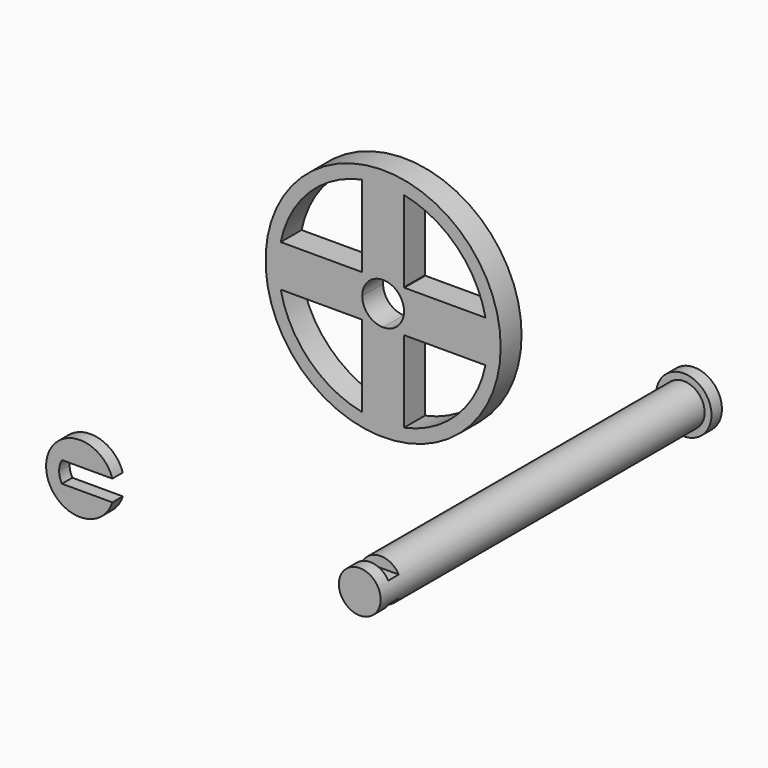
from build123d import *

# Parameters (mm, degrees)
F0_R      = 22.5
F1_DEPTH  = 5
F0_R_2    = 4
F2_DEPTH  = 80
F0_R_3    = 5.3049269063
F3_DEPTH  = 2.5
F6_W      = 4
F6_H      = 2.5
F7_DEPTH  = 2
F9_W      = 4
F9_H      = 2.5
F10_DEPTH = 2
F11_W     = 2.5
F11_H     = 2
F11_H_2   = 2.5
F14_DEPTH = 25


with BuildPart() as f1:
    # F0 (on Front) → F1 (new body)
    with BuildSketch(Plane.XZ):
        Circle(F0_R)
        with BuildLine():
            ThreePointArc((19.5959179423, 4), (19.8987230601, 2.0101792401), (20, 0))
            ThreePointArc((20, 0), (19.8987230601, -2.0101792401), (19.5959179423, -4))
            ThreePointArc((19.5959179423, -4), (14.1421356237, -14.1421356237), (4, -19.5959179423))
            ThreePointArc((4, -19.5959179423), (2.0101792401, -19.8987230601), (0, -20))
            ThreePointArc((0, -20), (-2.0101792401, -19.8987230601), (-4, -19.5959179423))
            ThreePointArc((-4, -19.5959179423), (-14.1421356237, -14.1421356237), (-19.5959179423, -4))
            ThreePointArc((-19.5959179423, -4), (-19.8987230601, -2.0101792401), (-20, 0))
            ThreePointArc((-20, 0), (-19.8987230601, 2.0101792401), (-19.5959179423, 4))
            ThreePointArc((-19.5959179423, 4), (-14.1421356237, 14.1421356237), (-4, 19.5959179423))
            ThreePointArc((-4, 19.5959179423), (-2.0101792401, 19.8987230601), (0, 20))
            ThreePointArc((0, 20), (2.0101792401, 19.8987230601), (4, 19.5959179423))
            ThreePointArc((4, 19.5959179423), (14.1421356237, 14.1421356237), (19.5959179423, 4))
        make_face(mode=Mode.SUBTRACT)
        with BuildLine():
            Line((-4.0603872565, 4), (-19.5959179423, 4))
            ThreePointArc((-19.5959179423, 4), (-19.8987230601, 2.0101792401), (-20, 0))
            Line((-20, 0), (-5.6997144378, 0))
            ThreePointArc((-5.6997144378, 0), (-5.2739829608, 2.1614459054), (-4.0603872565, 4))
        make_face()
        with BuildLine():
            Line((-4, 4), (0, 4))
            Line((0, 4), (0, 5.6997144378))
            ThreePointArc((0, 5.6997144378), (-2.1614459054, 5.2739829608), (-4, 4.0603872565))
            Line((-4, 4.0603872565), (-4, 4))
        make_face()
        with BuildLine():
            Line((0, 5.6997144378), (0, 20))
            ThreePointArc((0, 20), (-2.0101792401, 19.8987230601), (-4, 19.5959179423))
            Line((-4, 19.5959179423), (-4, 4.0603872565))
            ThreePointArc((-4, 4.0603872565), (-2.1614459054, 5.2739829608), (0, 5.6997144378))
        make_face()
        with BuildLine():
            Line((4, 4), (4, 4.0603872565))
            ThreePointArc((4, 4.0603872565), (2.1614459054, 5.2739829608), (0, 5.6997144378))
            Line((0, 5.6997144378), (0, 4))
            Line((0, 4), (4, 4))
        make_face()
        with BuildLine():
            Line((4, 4.0603872565), (4, 19.5959179423))
            ThreePointArc((4, 19.5959179423), (2.0101792401, 19.8987230601), (0, 20))
            Line((0, 20), (0, 5.6997144378))
            ThreePointArc((0, 5.6997144378), (2.1614459054, 5.2739829608), (4, 4.0603872565))
        make_face()
        with BuildLine():
            ThreePointArc((-20, 0), (-19.8987230601, -2.0101792401), (-19.5959179423, -4))
            Line((-19.5959179423, -4), (-4.0603872565, -4))
            ThreePointArc((-4.0603872565, -4), (-5.2739829608, -2.1614459054), (-5.6997144378, 0))
            Line((-5.6997144378, 0), (-20, 0))
        make_face()
        with BuildLine():
            ThreePointArc((0, 4), (2.8284271247, 2.8284271247), (4, 0))
            Line((4, 0), (4, 4))
            Line((4, 4), (0, 4))
        make_face()
        with BuildLine():
            Line((5.6997144378, 0), (20, 0))
            ThreePointArc((20, 0), (19.8987230601, 2.0101792401), (19.5959179423, 4))
            Line((19.5959179423, 4), (4.0603872565, 4))
            ThreePointArc((4.0603872565, 4), (5.2739829608, 2.1614459054), (5.6997144378, 0))
        make_face()
        with BuildLine():
            ThreePointArc((-4, 0), (-2.8284271247, 2.8284271247), (0, 4))
            Line((0, 4), (-4, 4))
            Line((-4, 4), (-4, 0))
        make_face()
        with BuildLine():
            Line((-4, -4), (0, -4))
            ThreePointArc((0, -4), (-2.8284271247, -2.8284271247), (-4, 0))
            Line((-4, 0), (-4, -4))
        make_face()
        with BuildLine():
            Line((4, -4), (4, 0))
            ThreePointArc((4, 0), (2.8284271247, -2.8284271247), (0, -4))
            Line((0, -4), (4, -4))
        make_face()
        with BuildLine():
            ThreePointArc((19.5959179423, -4), (19.8987230601, -2.0101792401), (20, 0))
            Line((20, 0), (5.6997144378, 0))
            ThreePointArc((5.6997144378, 0), (5.2739829608, -2.1614459054), (4.0603872565, -4))
            Line((4.0603872565, -4), (19.5959179423, -4))
        make_face()
        with BuildLine():
            ThreePointArc((0, -5.6997144378), (2.1614459054, -5.2739829608), (4, -4.0603872565))
            Line((4, -4.0603872565), (4, -4))
            Line((4, -4), (0, -4))
            Line((0, -4), (0, -5.6997144378))
        make_face()
        with BuildLine():
            ThreePointArc((0, -20), (2.0101792401, -19.8987230601), (4, -19.5959179423))
            Line((4, -19.5959179423), (4, -4.0603872565))
            ThreePointArc((4, -4.0603872565), (2.1614459054, -5.2739829608), (0, -5.6997144378))
            Line((0, -5.6997144378), (0, -20))
        make_face()
        with BuildLine():
            Line((0, -5.6997144378), (0, -4))
            Line((0, -4), (-4, -4))
            Line((-4, -4), (-4, -4.0603872565))
            ThreePointArc((-4, -4.0603872565), (-2.1614459054, -5.2739829608), (0, -5.6997144378))
        make_face()
        with BuildLine():
            ThreePointArc((-4, -19.5959179423), (-2.0101792401, -19.8987230601), (0, -20))
            Line((0, -20), (0, -5.6997144378))
            ThreePointArc((0, -5.6997144378), (-2.1614459054, -5.2739829608), (-4, -4.0603872565))
            Line((-4, -4.0603872565), (-4, -19.5959179423))
        make_face()
        with BuildLine():
            Line((-5.6997144378, 0), (-4, 0))
            Line((-4, 0), (-4, 4))
            Line((-4, 4), (-4.0603872565, 4))
            ThreePointArc((-4.0603872565, 4), (-5.2739829608, 2.1614459054), (-5.6997144378, 0))
        make_face()
        with BuildLine():
            Line((-4, -4), (-4, 0))
            Line((-4, 0), (-5.6997144378, 0))
            ThreePointArc((-5.6997144378, 0), (-5.2739829608, -2.1614459054), (-4.0603872565, -4))
            Line((-4.0603872565, -4), (-4, -4))
        make_face()
        with BuildLine():
            Line((-4.0603872565, 4), (-4, 4))
            Line((-4, 4), (-4, 4.0603872565))
            ThreePointArc((-4, 4.0603872565), (-4.0303067298, 4.0303067298), (-4.0603872565, 4))
        make_face()
        with BuildLine():
            Line((4, 4), (4.0603872565, 4))
            ThreePointArc((4.0603872565, 4), (4.0303067298, 4.0303067298), (4, 4.0603872565))
            Line((4, 4.0603872565), (4, 4))
        make_face()
        with BuildLine():
            ThreePointArc((4, -4.0603872565), (4.0303067298, -4.0303067298), (4.0603872565, -4))
            Line((4.0603872565, -4), (4, -4))
            Line((4, -4), (4, -4.0603872565))
        make_face()
        with BuildLine():
            ThreePointArc((4.0603872565, -4), (5.2739829608, -2.1614459054), (5.6997144378, 0))
            Line((5.6997144378, 0), (4, 0))
            Line((4, 0), (4, -4))
            Line((4, -4), (4.0603872565, -4))
        make_face()
        with BuildLine():
            Line((4, 0), (5.6997144378, 0))
            ThreePointArc((5.6997144378, 0), (5.2739829608, 2.1614459054), (4.0603872565, 4))
            Line((4.0603872565, 4), (4, 4))
            Line((4, 4), (4, 0))
        make_face()
        with BuildLine():
            Line((-4, -4.0603872565), (-4, -4))
            Line((-4, -4), (-4.0603872565, -4))
            ThreePointArc((-4.0603872565, -4), (-4.0303067298, -4.0303067298), (-4, -4.0603872565))
        make_face()
    extrude(amount=F1_DEPTH)


with BuildPart() as f2:
    # F0 (on Front) → F2 (new body)
    with BuildSketch(Plane.XZ):
        with Locations((55.5337630212, 0)):
            Circle(F0_R_2)
    extrude(amount=F2_DEPTH)

    # F0 (on Front) → F3 (join)
    with BuildSketch(Plane.XZ):
        with Locations((55.5337630212, 0)):
            Circle(F0_R_3)
        with Locations((55.5337630212, 0)):
            Circle(F0_R_2, mode=Mode.SUBTRACT)
    extrude(amount=F3_DEPTH)

    # F6 (on offset) → F7 (cut)
    with BuildSketch(Plane.XY.offset(4)):
        with Locations((57.5337630212, -76.25)):
            Rectangle(F6_W, F6_H)
        with Locations((53.5337630212, -76.25)):
            Rectangle(F6_W, F6_H)
    extrude(amount=-F7_DEPTH, mode=Mode.SUBTRACT)

    # F9 (on offset) → F10 (cut)
    with BuildSketch(Plane.XY.offset(-4)):
        with Locations((57.5337630212, -76.25)):
            Rectangle(F9_W, F9_H)
        with Locations((53.5337630212, -76.25)):
            Rectangle(F9_W, F9_H)
    extrude(amount=F10_DEPTH, mode=Mode.SUBTRACT)


with BuildPart() as f12:
    # F11 (on Right) → F12 (revolve)
    with BuildSketch(Plane.YZ):
        with Locations((-76.25, 1)):
            Rectangle(F11_W, F11_H)
        with Locations((-76.25, 3)):
            Rectangle(F11_W, F11_H)
        with Locations((-76.25, 5.25)):
            Rectangle(F11_W, F11_H_2)
    revolve(axis=Axis((0, -76.25, 0), (0, 1, 0)))

    # F13 (on face) → F14 (cut)
    with BuildSketch(Plane.XZ.offset(77.5)):
        with BuildLine():
            ThreePointArc((4, 0), (3.8637033052, 1.0352761804), (3.4641016151, 2))
            Line((3.4641016151, 2), (0, 2))
            Line((0, 2), (0, 0))
            Line((0, 0), (4, 0))
        make_face()
        with BuildLine():
            Line((6.1846584384, 2), (3.4641016151, 2))
            ThreePointArc((3.4641016151, 2), (3.8637033052, 1.0352761804), (4, 0))
            Line((4, 0), (6.5, 0))
            ThreePointArc((6.5, 0), (6.4206806434, 1.0123537302), (6.1846584384, 2))
        make_face()
        with BuildLine():
            ThreePointArc((3.4641016151, -2), (3.8637033052, -1.0352761804), (4, 0))
            Line((4, 0), (0, 0))
            Line((0, 0), (0, -2))
            Line((0, -2), (3.4641016151, -2))
        make_face()
        with BuildLine():
            Line((0, 0), (-4, 0))
            ThreePointArc((-4, 0), (-3.8637033052, -1.0352761804), (-3.4641016151, -2))
            Line((-3.4641016151, -2), (0, -2))
            Line((0, -2), (0, 0))
        make_face()
        with BuildLine():
            Line((0, 2), (-3.4641016151, 2))
            ThreePointArc((-3.4641016151, 2), (-3.8637033052, 1.0352761804), (-4, 0))
            Line((-4, 0), (0, 0))
            Line((0, 0), (0, 2))
        make_face()
        with BuildLine():
            Line((6.5, 0), (4, 0))
            ThreePointArc((4, 0), (3.8637033052, -1.0352761804), (3.4641016151, -2))
            Line((3.4641016151, -2), (6.1846584384, -2))
            ThreePointArc((6.1846584384, -2), (6.4206806434, -1.0123537302), (6.5, 0))
        make_face()
    extrude(amount=-F14_DEPTH, mode=Mode.SUBTRACT)


solid = Compound([f1.part, f2.part, f12.part])
